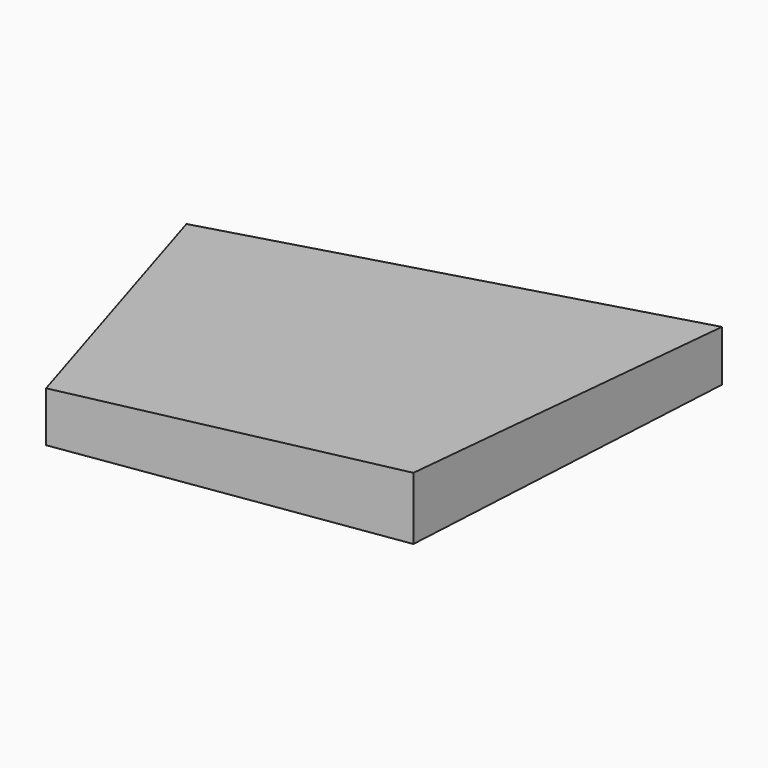
from build123d import *

# Parameters (mm, degrees)
F1_DEPTH = 60
F4_W     = 540.54229
F4_H     = 555.940762
F5_DEPTH = 60


with BuildPart() as f1:
    # F0 (on Top) → F1 (new body)
    with BuildSketch(Plane.XY):
        Polygon((-93.650797, 271.42857), (0, 0), (288.88887, 42.857143), (306.349203, 360.317448), align=None)
    extrude(amount=F1_DEPTH)

    # F4 (on face) → F5 (cut)
    with BuildSketch(Plane(origin=(-1.90751, 1.53702, 43.973129), x_dir=(0.999062, 0.001513, 0.043285), z_dir=(-0.043312, 0.034899, 0.998452))):
        with Locations((162.329443, 129.3981)):
            Rectangle(F4_W, F4_H)
    extrude(amount=F5_DEPTH, mode=Mode.SUBTRACT)


solid = f1.part
